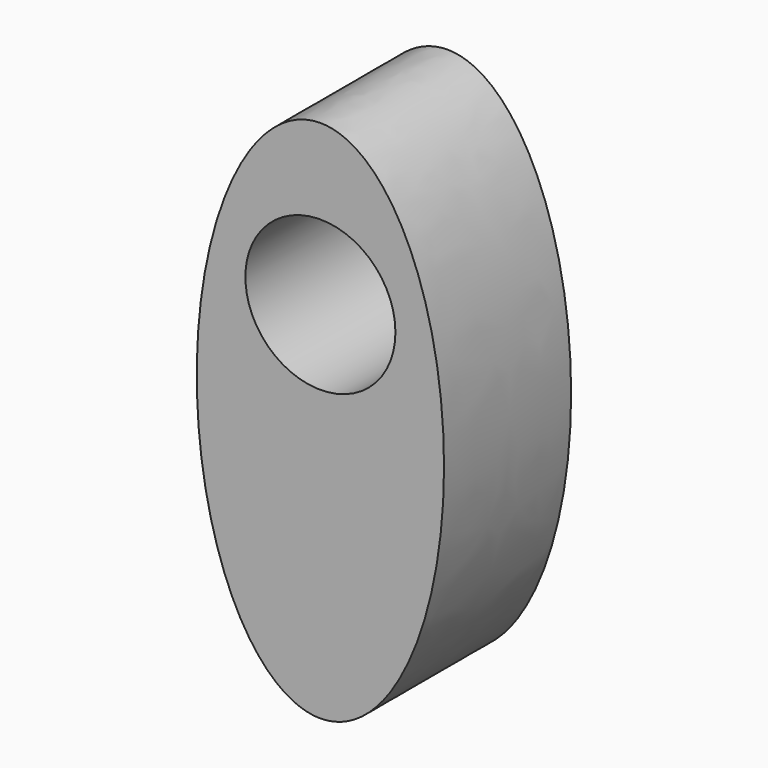
from build123d import *

# Parameters (mm, degrees)
F0_R     = 14.873983
F1_DEPTH = 31.496


with BuildPart() as f1:
    # F0 (on Front) → F1 (new body)
    with BuildSketch(Plane.XZ):
        with BuildLine():
            add(Edge.make_bspline(
                [(0, -51.969796), (42.455255, -51.969796), (21.227627, 25.984898), (0, 103.939593), (-21.227627, 25.984898), (-42.455255, -51.969796), (0, -51.969796)],
                knots=[0, 0, 0, 2.094395, 2.094395, 4.18879, 4.18879, 6.283185, 6.283185, 6.283185], degree=2, weights=[1, 0.5, 1, 0.5, 1, 0.5, 1]))
        make_face()
        with Locations((0, 20.259414)):
            Circle(F0_R, mode=Mode.SUBTRACT)
    extrude(amount=F1_DEPTH)


solid = f1.part
